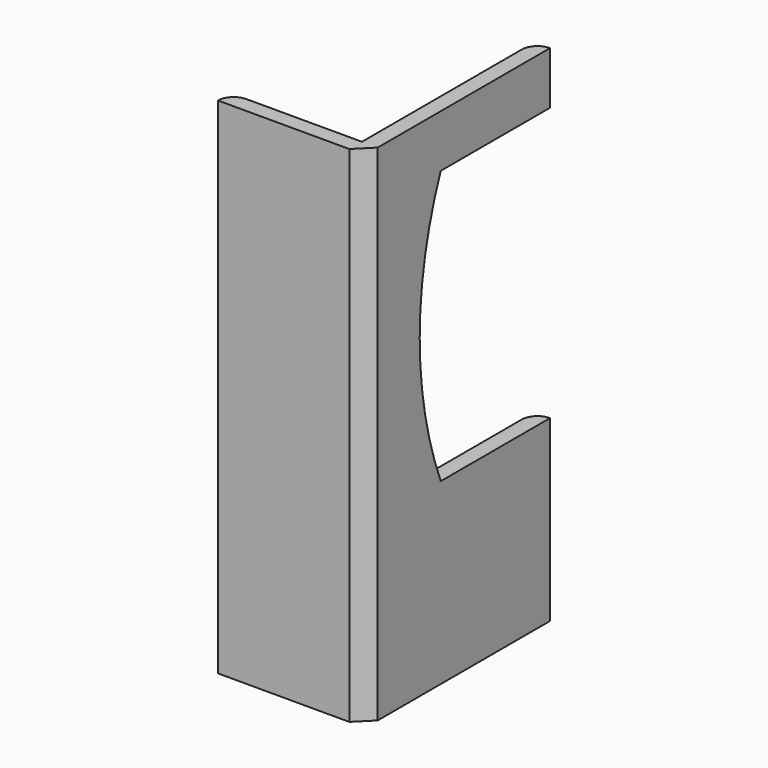
from build123d import *

# Parameters (mm, degrees)
F1_DEPTH = 304.8
F3_DEPTH = 88.901


with BuildPart() as f1:
    # F0 (on Top) → F1 (new body)
    with BuildSketch(Plane.XY):
        with BuildLine():
            Line((-44.45, -69.85), (34.925, -69.85))
            Line((34.925, -69.85), (44.45, -60.325))
            Line((44.45, -60.325), (44.45, 69.85))
            ThreePointArc((44.45, 69.85), (37.714808, 67.060192), (34.925, 60.325))
            Line((34.925, 60.325), (34.925, -60.325))
            Line((34.925, -60.325), (-34.925, -60.325))
            ThreePointArc((-34.925, -60.325), (-41.660192, -63.114808), (-44.45, -69.85))
        make_face()
    extrude(amount=F1_DEPTH)

    # F2 (on face) → F3 (cut, through all)
    with BuildSketch(Plane.YZ.offset(44.45)):
        with BuildLine():
            Line((69.85, 107.95), (69.85, 273.05))
            Line((69.85, 273.05), (-12.7, 273.05))
            ThreePointArc((-12.7, 273.05), (-28.584649, 190.5), (-12.7, 107.95))
            Line((-12.7, 107.95), (69.85, 107.95))
        make_face()
    extrude(amount=-F3_DEPTH, mode=Mode.SUBTRACT)


solid = f1.part
